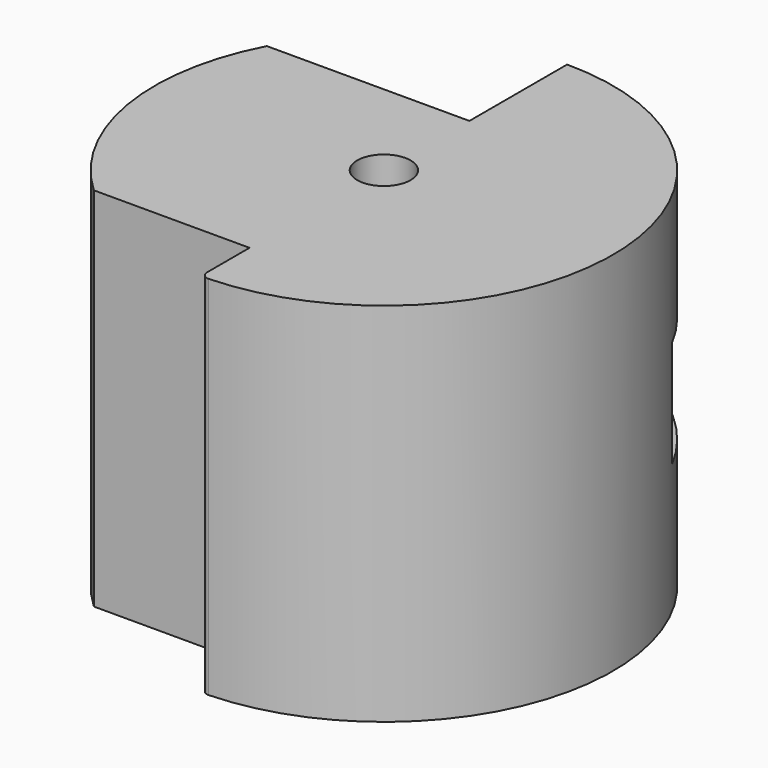
from build123d import *

# Parameters (mm, degrees)
F0_R     = 1.75
F1_DEPTH = 24
F2_R     = 0.5
F3_W     = 8
F3_H     = 7
F4_DEPTH = 15.001


with BuildPart() as f1:
    # F0 (on Top) → F1 (new body)
    with BuildSketch(Plane.XY):
        with BuildLine():
            Line((0, 7), (-13.266499, 7))
            ThreePointArc((-13.266499, 7), (-14.786688, -2.520687), (-10.198039, -11))
            Line((-10.198039, -11), (0, -11))
            Line((0, -11), (0, -15))
            ThreePointArc((0, -15), (15, 0), (0, 15))
            Line((0, 15), (0, 7))
        make_face()
        Circle(F0_R, mode=Mode.SUBTRACT)
    extrude(amount=F1_DEPTH)

    # F2
    f2_edges = [f1.edges().sort_by_distance(p)[0] for p in [
        (0, -15, 12),
    ]]
    fillet(f2_edges, radius=F2_R)

    # F3 (on face) → F4 (cut, through all)
    with BuildSketch(Plane(origin=(0, 0, 0), x_dir=(0, -1, 0), z_dir=(-1, 0, 0))):
        with Locations((-11, 12)):
            Rectangle(F3_W, F3_H)
    extrude(amount=-F4_DEPTH, mode=Mode.SUBTRACT)


solid = f1.part
